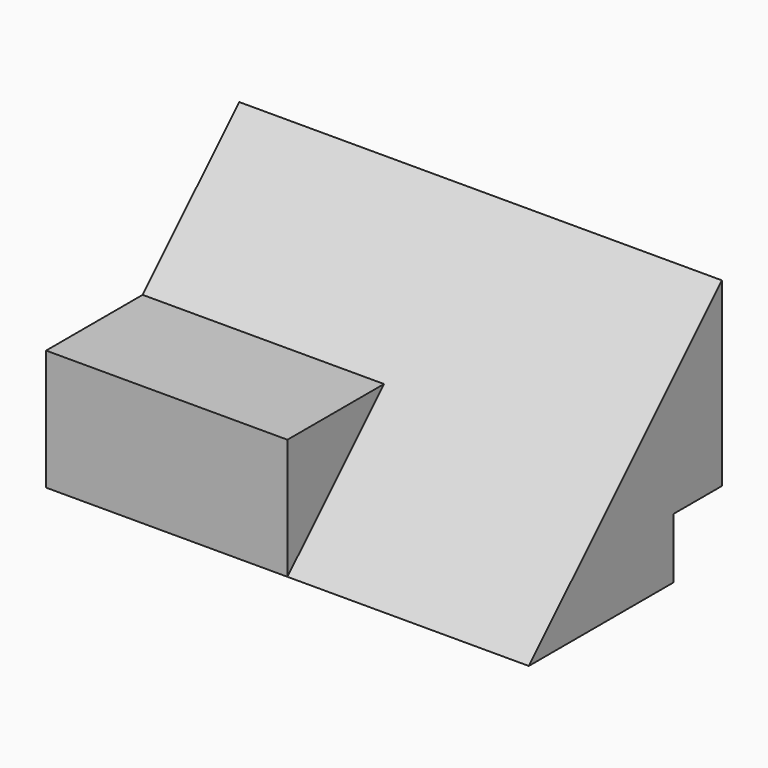
from build123d import *

# Parameters (mm, degrees)
F1_DEPTH = 101.6
F2_W     = 50.8
F2_H     = 25.4
F3_DEPTH = 25.4


with BuildPart() as f1:
    # F0 (on Right) → F1 (new body)
    with BuildSketch(Plane.YZ):
        Polygon((50.8000037106, 12.7), (50.8000037106, 50.8), (0, 0), (38.1, 0), (38.1, 12.7030098811), align=None)
    extrude(amount=F1_DEPTH)

    # F2 (on Top) → F3 (join)
    with BuildSketch(Plane.XY):
        with Locations((25.4, 12.7)):
            Rectangle(F2_W, F2_H)
    extrude(amount=F3_DEPTH)


solid = f1.part
